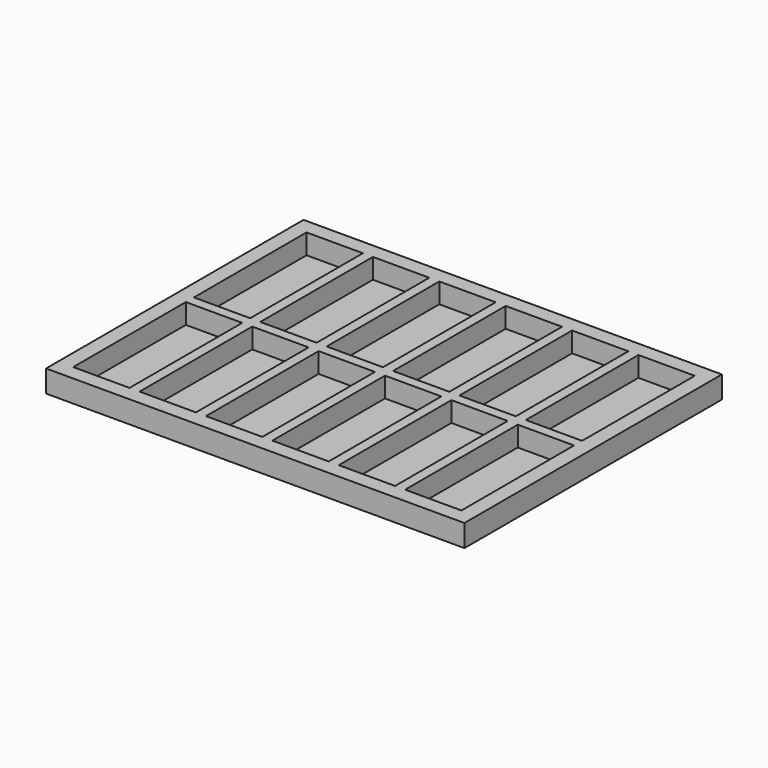
from build123d import *

# Parameters (mm, degrees)
F0_W     = 416
F0_H     = 320
F0_W_2   = 56
F0_H_2   = 140
F1_DEPTH = 20
F2_W     = 416
F2_H     = 320
F3_DEPTH = 2


with BuildPart() as f1:
    # F0 (on Top) → F1 (new body)
    with BuildSketch(Plane.XY):
        with Locations((56.038242, -33.711525)):
            Rectangle(F0_W, F0_H)
        with Locations((-108.961758, -108.711525)):
            Rectangle(F0_W_2, F0_H_2, mode=Mode.SUBTRACT)
        with Locations((-42.961758, -108.711525)):
            Rectangle(F0_W_2, F0_H_2, mode=Mode.SUBTRACT)
        with Locations((23.038242, -108.711525)):
            Rectangle(F0_W_2, F0_H_2, mode=Mode.SUBTRACT)
        with Locations((89.038242, -108.711525)):
            Rectangle(F0_W_2, F0_H_2, mode=Mode.SUBTRACT)
        with Locations((155.038242, -108.711525)):
            Rectangle(F0_W_2, F0_H_2, mode=Mode.SUBTRACT)
        with Locations((221.038242, -108.711525)):
            Rectangle(F0_W_2, F0_H_2, mode=Mode.SUBTRACT)
        with Locations((-108.961758, 41.288475)):
            Rectangle(F0_W_2, F0_H_2, mode=Mode.SUBTRACT)
        with Locations((-42.961758, 41.288475)):
            Rectangle(F0_W_2, F0_H_2, mode=Mode.SUBTRACT)
        with Locations((23.038242, 41.288475)):
            Rectangle(F0_W_2, F0_H_2, mode=Mode.SUBTRACT)
        with Locations((89.038242, 41.288475)):
            Rectangle(F0_W_2, F0_H_2, mode=Mode.SUBTRACT)
        with Locations((155.038242, 41.288475)):
            Rectangle(F0_W_2, F0_H_2, mode=Mode.SUBTRACT)
        with Locations((221.038242, 41.288475)):
            Rectangle(F0_W_2, F0_H_2, mode=Mode.SUBTRACT)
    extrude(amount=F1_DEPTH)

    # F2 (on face) → F3 (join)
    with BuildSketch(Plane(origin=(0, 0, 0), x_dir=(1, 0, 0), z_dir=(0, 0, -1))):
        with Locations((56.038242, 33.711525)):
            Rectangle(F2_W, F2_H)
    extrude(amount=F3_DEPTH)


solid = f1.part
